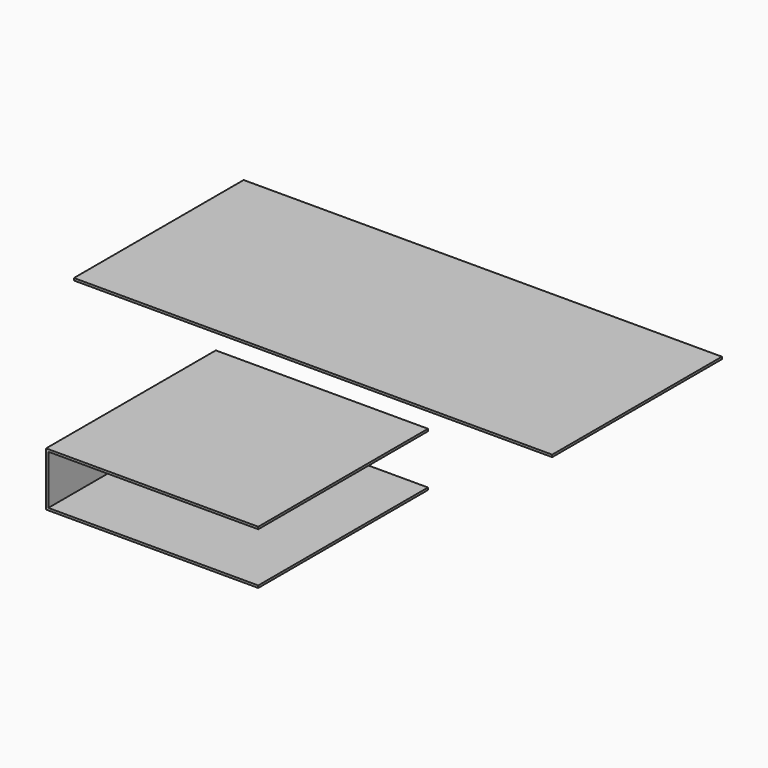
from build123d import *

# Parameters (mm, degrees)
F1_DEPTH = 299.72
F3_DEPTH = 3.175


with BuildPart() as f1:
    # F0 (on Front) → F1 (new body)
    with BuildSketch(Plane.XZ):
        Polygon((0, 76.2), (0, 0), (299.72, 0), (299.72, 3.175), (3.175, 3.175), (3.175, 73.025), (299.72, 73.025), (299.72, 76.2), align=None)
    extrude(amount=F1_DEPTH)


with BuildPart() as f3:
    # F2 (on Top) → F3 (new body)
    with BuildSketch(Plane.XY):
        Polygon((-317.913711, 446.55716), (-317.913711, 146.83716), (-18.193711, 146.83716), (58.006289, 146.83716), (357.726289, 146.83716), (357.726289, 446.55716), (58.006289, 446.55716), (-18.193711, 446.55716), align=None)
    extrude(amount=F3_DEPTH)


solid = Compound([f1.part, f3.part])
